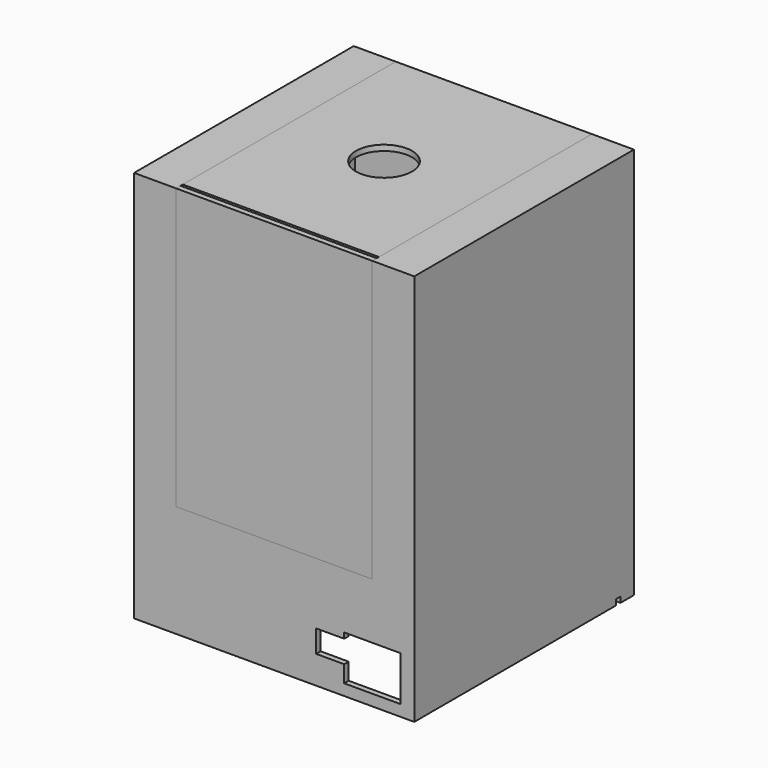
from build123d import *

# Parameters (mm, degrees)
F0_W      = 500
F0_H      = 490
F0_W_2    = 480
F0_H_2    = 470
F1_DEPTH  = 700
F2_W      = 480
F2_H      = 470
F3_DEPTH  = 10
F4_W      = 50
F4_H      = 40
F5_DEPTH  = 25
F6_W      = 40
F6_H      = 40
F7_DEPTH  = 25
F8_W      = 10
F8_H      = 10
F9_DEPTH  = 25
F10_W     = 350
F10_H     = 500
F11_DEPTH = 15
F12_DEPTH = 10
F13_W     = 350
F13_H     = 475
F14_DEPTH = 10
F15_DEPTH = 10
F16_R     = 50
F17_DEPTH = 10


with BuildPart() as f1:
    # F0 (on Top) → F1 (new body)
    with BuildSketch(Plane.XY):
        with Locations((112.8801819126, 104.1326503491)):
            Rectangle(F0_W, F0_H)
        with Locations((112.8801819126, 104.1326503491)):
            Rectangle(F0_W_2, F0_H_2, mode=Mode.SUBTRACT)
    extrude(amount=F1_DEPTH)

    # F2 (on face) → F3 (join)
    with BuildSketch(Plane.XY.offset(700)):
        with Locations((112.8801819126, 104.1326503491)):
            Rectangle(F2_W, F2_H)
    extrude(amount=-F3_DEPTH)

    # F4 (on face) → F5 (cut)
    with BuildSketch(Plane.XZ.offset(140.8673496509)):
        Polygon((237.8801819126, 20), (337.8801819126, 20), (337.8801819126, 100), (237.8801819126, 100), (237.8801819126, 90), (237.8801819126, 50), align=None)
        with Locations((212.8801819126, 70)):
            Rectangle(F4_W, F4_H)
    extrude(amount=-F5_DEPTH, mode=Mode.SUBTRACT)

    # F6 (on face) → F7 (cut)
    with BuildSketch(Plane(origin=(-137.1198180874, 0, 0), x_dir=(0, -1, 0), z_dir=(-1, 0, 0))):
        with Locations((65.8673496509, 60)):
            Rectangle(F6_W, F6_H)
    extrude(amount=-F7_DEPTH, mode=Mode.SUBTRACT)

    # F8 (on face) → F9 (cut)
    with BuildSketch(Plane.YZ.offset(362.8801819126)):
        with Locations((314.1326503491, 5)):
            Rectangle(F8_W, F8_H)
    extrude(amount=-F9_DEPTH, mode=Mode.SUBTRACT)

    # F10 (on face) → F11 (cut)
    with BuildSketch(Plane.XZ.offset(140.8673496509)):
        with Locations((112.8801819126, 450)):
            Rectangle(F10_W, F10_H)
    extrude(amount=-F11_DEPTH, mode=Mode.SUBTRACT)

    # F13 (on face) → F14 (cut)
    with BuildSketch(Plane.XY.offset(700)):
        with Locations((112.8801819126, 111.6326503491)):
            Rectangle(F13_W, F13_H)
    extrude(amount=-F14_DEPTH, mode=Mode.SUBTRACT)


with BuildPart() as f12:
    # F10 (on face) → F12 (new body)
    with BuildSketch(Plane.XZ.offset(140.8673496509)):
        with Locations((112.8801819126, 450)):
            Rectangle(F10_W, F10_H)
    extrude(amount=-F12_DEPTH)


with BuildPart() as f15:
    # F13 (on face) → F15 (new body)
    with BuildSketch(Plane.XY.offset(700)):
        with Locations((112.8801819126, 111.6326503491)):
            Rectangle(F13_W, F13_H)
    extrude(amount=-F15_DEPTH)

    # F16 (on face) → F17 (cut)
    with BuildSketch(Plane.XY.offset(700)):
        with Locations((112.8801819126, 104.1326503491)):
            Circle(F16_R)
    extrude(amount=-F17_DEPTH, mode=Mode.SUBTRACT)


solid = Compound([f1.part, f12.part, f15.part])
